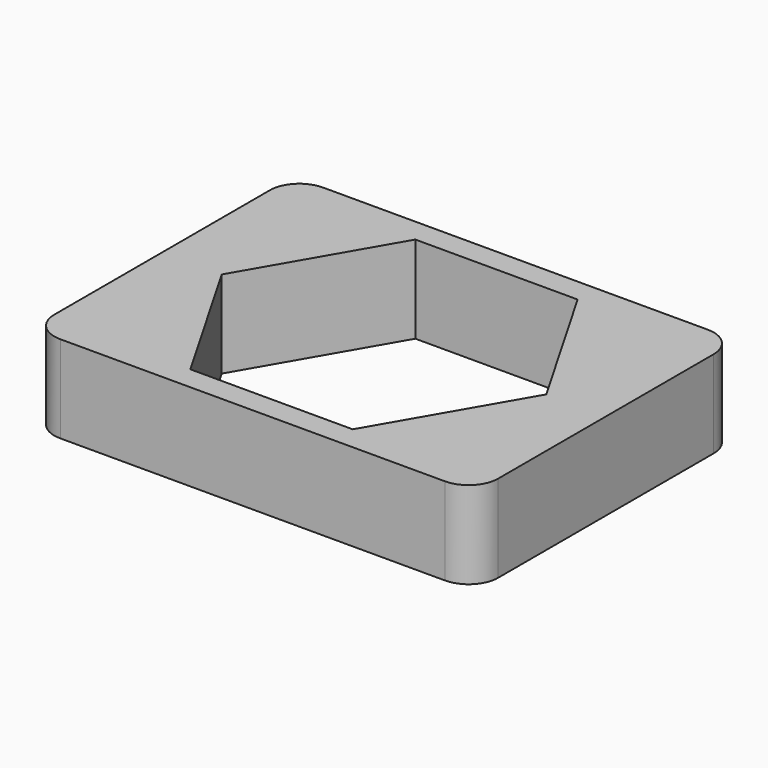
from build123d import *

# Parameters (mm, degrees)
F0_W     = 30
F0_H     = 22.2
F1_DEPTH = 5.9
F2_R     = 2


with BuildPart() as f1:
    # F0 (on Top) → F1 (new body)
    with BuildSketch(Plane.XY):
        Rectangle(F0_W, F0_H)
        Polygon((-5.483147, 9.50097), (5.486508, 9.49903), (10.969655, -0.00194), (5.483147, -9.50097), (-5.486508, -9.49903), (-10.969655, 0.00194), align=None, mode=Mode.SUBTRACT)
    extrude(amount=F1_DEPTH)

    # F2
    f2_edges = [f1.edges().sort_by_distance(p)[0] for p in [
        (15, 11.1, 2.95),
        (15, -11.1, 2.95),
        (-15, 11.1, 2.95),
        (-15, -11.1, 2.95),
    ]]
    fillet(f2_edges, radius=F2_R)


solid = f1.part
